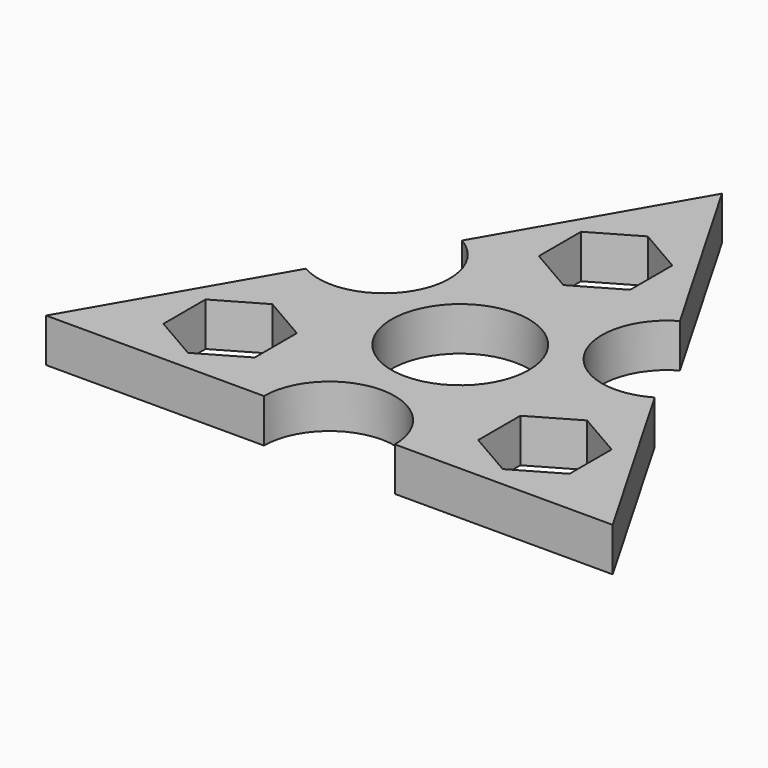
from build123d import *

# Parameters (mm, degrees)
F0_R     = 9.45
F1_DEPTH = 6


with BuildPart() as f1:
    # F0 (on Top) → F1 (new body)
    with BuildSketch(Plane.XY):
        with BuildLine():
            Line((14.985572, 19.044229), (0, 45))
            Line((0, 45), (-14.985572, 19.044229))
            ThreePointArc((-14.985572, 19.044229), (-11.691343, 6.75), (-23.985572, 3.455771))
            Line((-23.985572, 3.455771), (-38.971143, -22.5))
            Line((-38.971143, -22.5), (-9, -22.5))
            ThreePointArc((-9, -22.5), (0, -13.5), (9, -22.5))
            Line((9, -22.5), (38.971143, -22.5))
            Line((38.971143, -22.5), (23.985572, 3.455771))
            ThreePointArc((23.985572, 3.455771), (11.691343, 6.75), (14.985572, 19.044229))
        make_face()
        Polygon((-15.371951, -16.125), (-21.650635, -19.75), (-27.929319, -16.125), (-27.929319, -8.875), (-21.650635, -5.25), (-15.371951, -8.875), align=None, mode=Mode.SUBTRACT)
        Polygon((21.650635, -5.25), (27.929319, -8.875), (27.929319, -16.125), (21.650635, -19.75), (15.371951, -16.125), (15.371951, -8.875), align=None, mode=Mode.SUBTRACT)
        Circle(F0_R, mode=Mode.SUBTRACT)
        Polygon((-6.278684, 28.625), (0, 32.25), (6.278684, 28.625), (6.278684, 21.375), (0, 17.75), (-6.278684, 21.375), align=None, mode=Mode.SUBTRACT)
    extrude(amount=F1_DEPTH)


solid = f1.part
